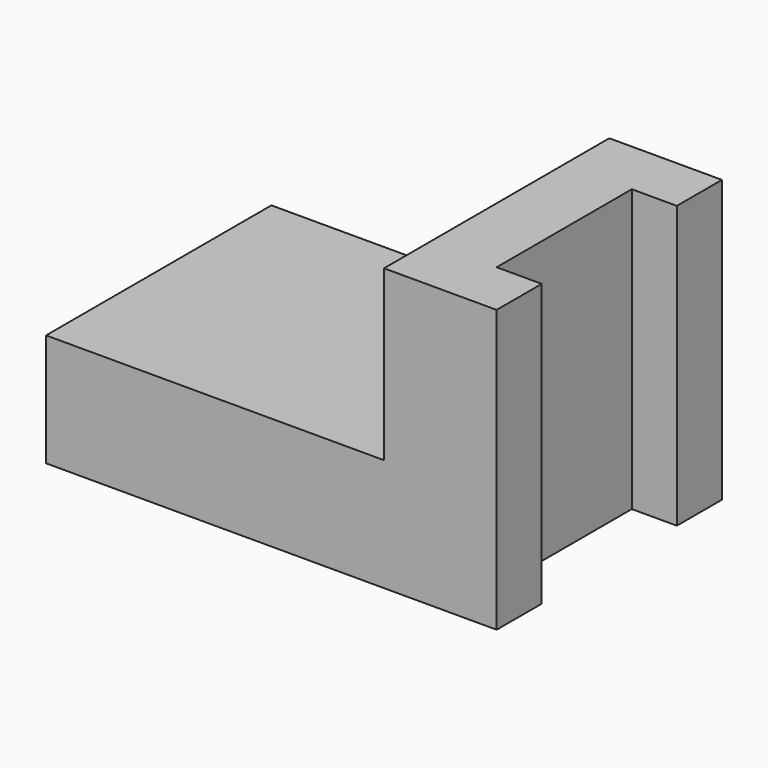
from build123d import *

# Parameters (mm, degrees)
F0_W     = 80
F0_H     = 50
F1_DEPTH = 20
F2_W     = 20
F2_H     = 50
F3_DEPTH = 30
F4_W     = 8
F4_H     = 30
F5_DEPTH = 50.001


with BuildPart() as f1:
    # F0 (on Top) → F1 (new body)
    with BuildSketch(Plane.XY):
        Rectangle(F0_W, F0_H)
    extrude(amount=F1_DEPTH)

    # F2 (on face) → F3 (join)
    with BuildSketch(Plane.XY.offset(20)):
        with Locations((30, 0)):
            Rectangle(F2_W, F2_H)
    extrude(amount=F3_DEPTH)

    # F4 (on face) → F5 (cut, through all)
    with BuildSketch(Plane.XY.offset(50)):
        with Locations((36, 0)):
            Rectangle(F4_W, F4_H)
    extrude(amount=-F5_DEPTH, mode=Mode.SUBTRACT)


solid = f1.part
